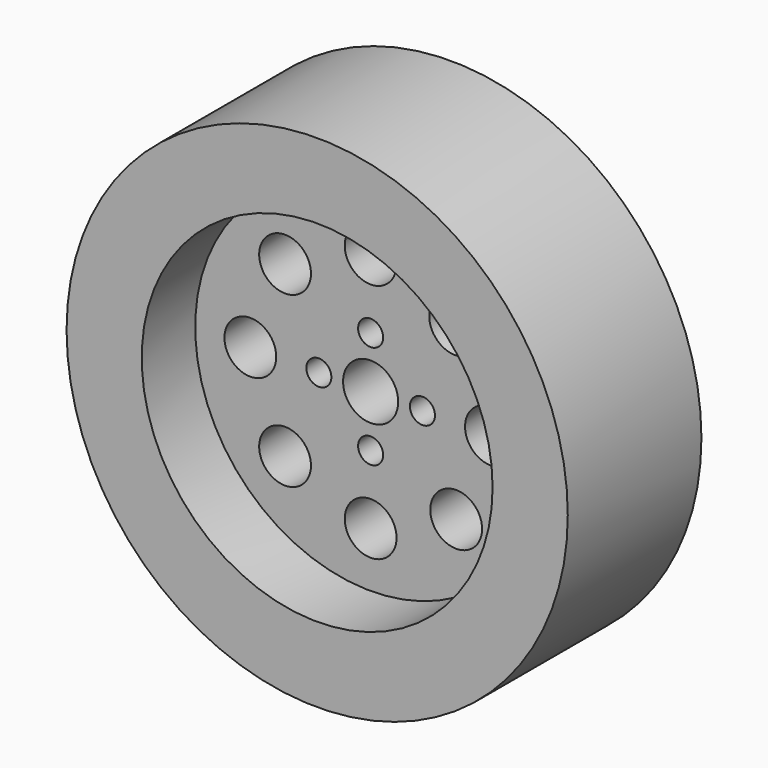
from build123d import *

# Parameters (mm, degrees)
F0_R     = 38.1
F0_R_2   = 36.83
F0_R_3   = 26.67
F1_DEPTH = 25.4
F0_R_4   = 3.937
F0_R_5   = 1.905
F0_R_6   = 4.191
F2_DEPTH = 15.24


with BuildPart() as f1:
    # F0 (on Front) → F1 (new body)
    with BuildSketch(Plane.XZ):
        Circle(F0_R)
        Circle(F0_R_2, mode=Mode.SUBTRACT)
        Circle(F0_R_2)
        Circle(F0_R_3, mode=Mode.SUBTRACT)
    extrude(amount=F1_DEPTH)

    # F0 (on Front) → F2 (join)
    with BuildSketch(Plane.XZ):
        Circle(F0_R_3)
        with Locations((-13.007903, -12.854781)):
            Circle(F0_R_4, mode=Mode.SUBTRACT)
        with Locations((0, -18.288)):
            Circle(F0_R_4, mode=Mode.SUBTRACT)
        with Locations((13.007903, -12.854781)):
            Circle(F0_R_4, mode=Mode.SUBTRACT)
        with Locations((0, -7.874)):
            Circle(F0_R_5, mode=Mode.SUBTRACT)
        with Locations((-18.288, 0)):
            Circle(F0_R_4, mode=Mode.SUBTRACT)
        with Locations((-7.874, 0)):
            Circle(F0_R_5, mode=Mode.SUBTRACT)
        with Locations((-13.007903, 12.854781)):
            Circle(F0_R_4, mode=Mode.SUBTRACT)
        Circle(F0_R_6, mode=Mode.SUBTRACT)
        with Locations((7.874, 0)):
            Circle(F0_R_5, mode=Mode.SUBTRACT)
        with Locations((0, 7.874)):
            Circle(F0_R_5, mode=Mode.SUBTRACT)
        with Locations((18.288, 0)):
            Circle(F0_R_4, mode=Mode.SUBTRACT)
        with Locations((0, 18.288)):
            Circle(F0_R_4, mode=Mode.SUBTRACT)
        with Locations((12.854781, 13.007903)):
            Circle(F0_R_4, mode=Mode.SUBTRACT)
    extrude(amount=F2_DEPTH)


solid = f1.part
